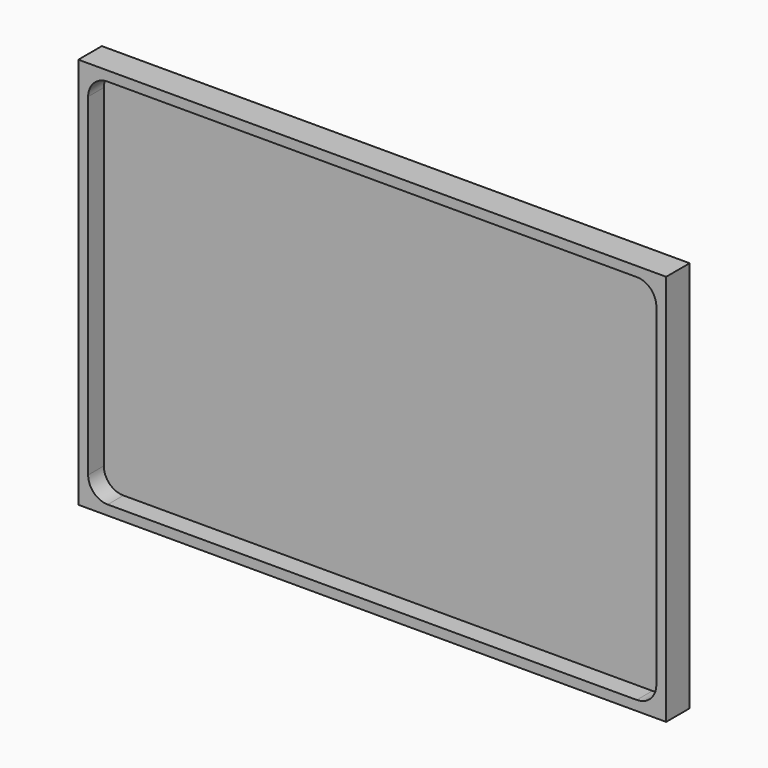
from build123d import *

# Parameters (mm, degrees)
F0_W     = 152.4
F0_H     = 101.6
F1_DEPTH = 7.62
F2_T     = -2.54
F3_R     = 5.08


with BuildPart() as f1:
    # F0 (on Front) → F1 (new body)
    with BuildSketch(Plane.XZ):
        Rectangle(F0_W, F0_H)
    extrude(amount=F1_DEPTH)

    # F2
    f2_openings = [f1.faces().sort_by_distance(p)[0] for p in [
        (0, -7.62, 0),
    ]]
    offset(amount=F2_T, openings=f2_openings)

    # F3
    f3_edges = [f1.edges().sort_by_distance(p)[0] for p in [
        (-73.66, -5.08, 48.26),
        (-73.66, -5.08, -48.26),
        (73.66, -5.08, 48.26),
        (73.66, -5.08, -48.26),
    ]]
    fillet(f3_edges, radius=F3_R)


solid = f1.part
